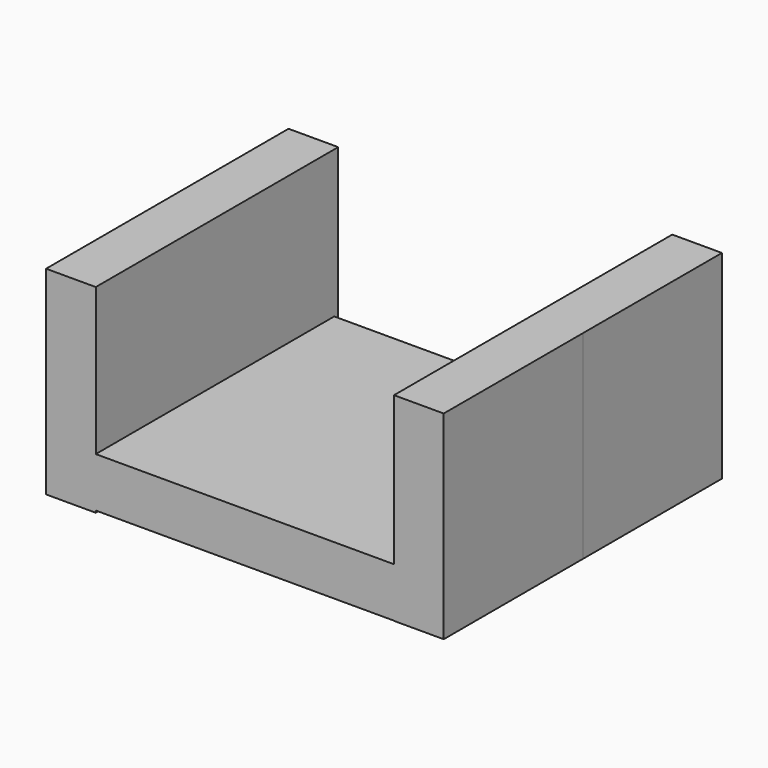
from build123d import *

# Parameters (mm, degrees)
F0_W      = 63.5
F0_H      = 12.7
F1_DEPTH  = 88.9
F2_W      = 12.7
F2_H      = 50.8
F3_DEPTH  = 44.45
F1_FACE_W = 88.9
F1_FACE_H = 12.7
F4_DEPTH  = 12.7
F5_DEPTH  = 33.02
F6_W      = 12.7
F6_H      = 50.8
F7_DEPTH  = 44.45
F8_DEPTH  = 44.45


with BuildPart() as f1:
    # F0 (on Right) → F1 (new body)
    with BuildSketch(Plane.YZ):
        Rectangle(F0_W, F0_H)
    extrude(amount=F1_DEPTH)

    # F2 (on Front) → F3 (join)
    with BuildSketch(Plane.XZ):
        with Locations((-6.35, 18.538677)):
            Rectangle(F2_W, F2_H)
    extrude(amount=F3_DEPTH)

    # F1_face (on face) → F4 (join)
    with BuildSketch(Plane(origin=(44.45, -31.75, 0), x_dir=(1, 0, 0), z_dir=(0, -1, 0))):
        Rectangle(F1_FACE_W, F1_FACE_H)
    extrude(amount=F4_DEPTH)

    # F3_face (on face) → F5 (join)
    with BuildSketch(Plane(origin=(-6.35, 0, 18.538677), x_dir=(1, 0, 0), z_dir=(0, 1, 0))):
        Polygon((6.35, 24.888677), (6.35, 25.4), (-6.35, 25.4), (-6.35, -25.4), (6.35, -25.4), (6.35, 12.188677), align=None)
    extrude(amount=F5_DEPTH)

    # F6 (on Front) → F7 (join)
    with BuildSketch(Plane.XZ):
        with Locations((82.592454, 19.003852)):
            Rectangle(F6_W, F6_H)
    extrude(amount=F7_DEPTH)

    # F7_face (on face) → F8 (join)
    with BuildSketch(Plane(origin=(82.599499, 0, 25.310266), x_dir=(1, 0, 0), z_dir=(0, 1, 0))):
        Polygon((-6.357044, -19.093586), (6.342956, -19.093586), (6.342956, 31.706414), (-6.357044, 31.706414), (-6.357044, 31.660266), (6.300501, 31.660266), (6.300501, 18.960266), (-6.357044, 18.960266), align=None)
    extrude(amount=F8_DEPTH)


solid = f1.part
